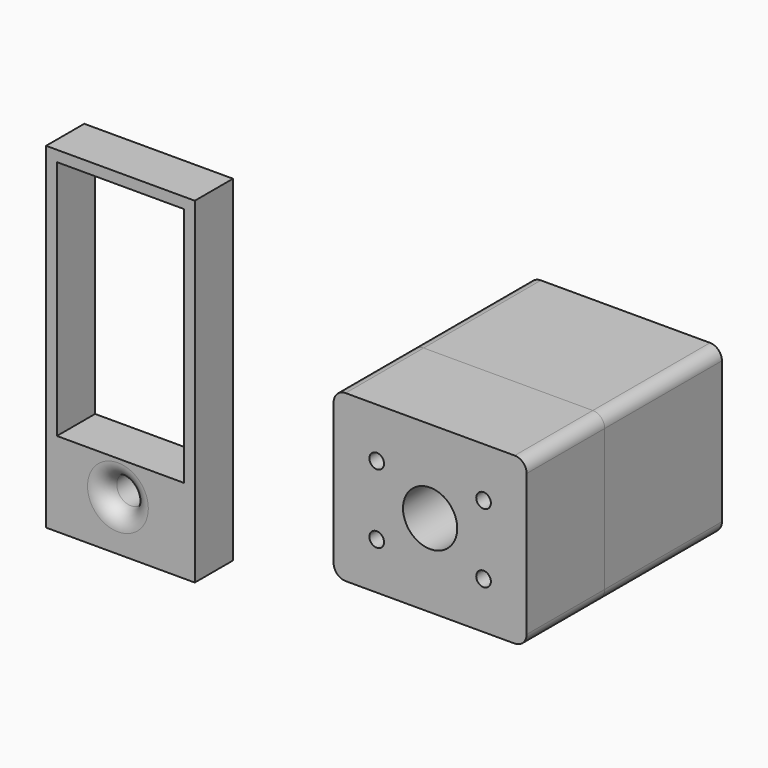
from build123d import *

# Parameters (mm, degrees)
F0_W           = 177.9490709305
F0_H           = 152.6443958282
F1_DEPTH       = 67.564
F2_R           = 11
F4_D           = 6.7564
F4_CSINK_D     = 13.4874
F4_CSINK_ANGLE = 82
F6_D           = 45
F6_CSINK_D     = 50
F6_CSINK_ANGLE = 82
F7_DEPTH       = 90
F8_W           = 137.1426898649
F8_H           = 309.9995861312
F8_W_2         = 117.1426898649
F8_H_2         = 67.6793738137
F8_R           = 13.0462030276
F9_DEPTH       = 22
F10_R          = 15


with BuildPart() as f1:
    # F0 (on Front) → F1 (new body, symmetric)
    with BuildSketch(Plane.XZ):
        Rectangle(F0_W, F0_H)
    extrude(amount=F1_DEPTH, both=True)

    # F2
    f2_edges = [f1.edges().sort_by_distance(p)[0] for p in [
        (88.974535, 0, 76.322198),
        (88.974535, 0, -76.322198),
        (-88.974535, 0, -76.322198),
        (-88.974535, 0, 76.322198),
    ]]
    fillet(f2_edges, radius=F2_R)

    # F4 (through all)
    with Locations(Plane.XZ.offset(67.564)):
        with Locations((-49.2617487907, 30.5246915668), (49.2617487907, 30.5246915668), (49.2617487907, -33.1637137569), (-49.2617487907, -33.1637137569)):
            CounterSinkHole(F4_D / 2, F4_CSINK_D / 2, counter_sink_angle=F4_CSINK_ANGLE)

    # F6 (through all)
    with Locations(Plane.XZ.offset(67.564)):
        with Locations((0, 0)):
            CounterSinkHole(F6_D / 2, F6_CSINK_D / 2, counter_sink_angle=F6_CSINK_ANGLE)


with BuildPart() as f7:
    # F7 (new): a face of the model
    f7_faces = [f1.part.faces().sort_by_distance(p)[0] for p in [
        (0, -67.564, 73.9777111169),
    ]]
    extrude(f7_faces, amount=F7_DEPTH)


with BuildPart() as f9:
    # F8 (on face) → F9 (new body, symmetric)
    with BuildSketch(Plane.XZ.offset(157.564)):
        with Locations((-267.991155386, 46.9301007688)):
            Rectangle(F8_W, F8_H)
        Polygon((-326.5625003184, -30.3903184831), (-326.5625003184, 191.9298938344), (-209.4198104535, 191.9298938344), (-209.4198104535, -30.3903184831), (-209.4198104535, -98.0696922968), (-326.5625003184, -98.0696922968), align=None, mode=Mode.SUBTRACT)
        with Locations((-267.991155386, -64.2300053899)):
            Rectangle(F8_W_2, F8_H_2)
        with Locations((-270.3162431717, -61.8666037917)):
            Circle(F8_R, mode=Mode.SUBTRACT)
    extrude(amount=F9_DEPTH, both=True)

    # F10
    f10_edges = [f9.edges().sort_by_distance(p)[0] for p in [
        (-283.362446, -179.564, -61.866604),
    ]]
    fillet(f10_edges, radius=F10_R)


solid = Compound([f1.part, f7.part, f9.part])
